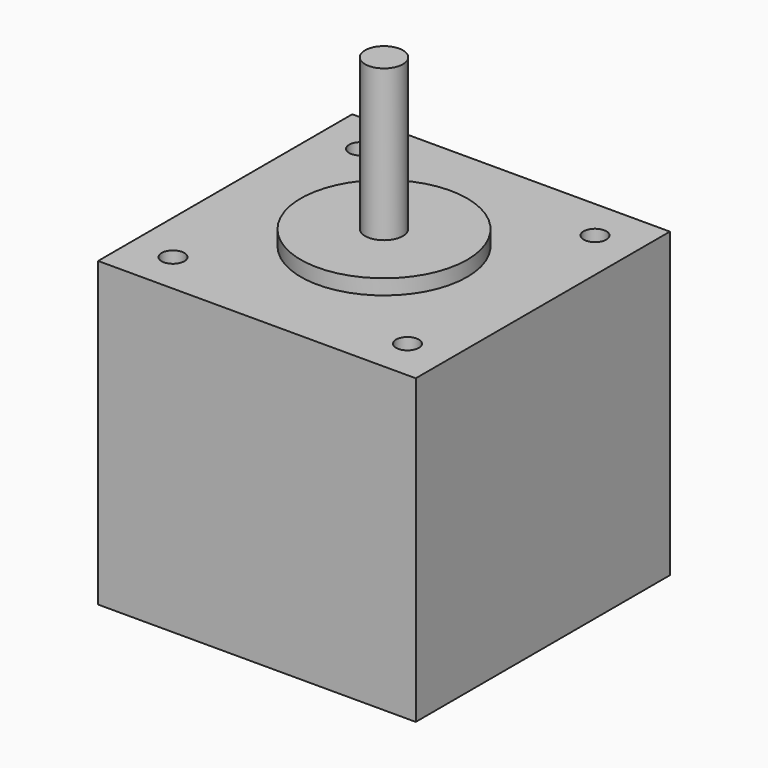
from build123d import *

# Parameters (mm, degrees)
F0_W     = 42
F0_H     = 42
F1_DEPTH = 40
F2_R     = 11
F3_DEPTH = 2
F4_R     = 2.5
F5_DEPTH = 20
F6_R     = 1.5
F7_DEPTH = 40.001


with BuildPart() as f1:
    # F0 (on Top) → F1 (new body)
    with BuildSketch(Plane.XY):
        Rectangle(F0_W, F0_H)
    extrude(amount=-F1_DEPTH)

    # F2 (on face) → F3 (join)
    with BuildSketch(Plane.XY):
        Circle(F2_R)
    extrude(amount=F3_DEPTH)

    # F4 (on face) → F5 (join)
    with BuildSketch(Plane.XY.offset(2)):
        Circle(F4_R)
    extrude(amount=F5_DEPTH)

    # F6 (on face) → F7 (cut, through all)
    with BuildSketch(Plane.XY):
        with Locations((15.5, 15.5)):
            Circle(F6_R)
        with Locations((-15.5, 15.5)):
            Circle(F6_R)
        with Locations((-15.5, -15.5)):
            Circle(F6_R)
        with Locations((15.5, -15.5)):
            Circle(F6_R)
    extrude(amount=-F7_DEPTH, mode=Mode.SUBTRACT)


solid = f1.part
